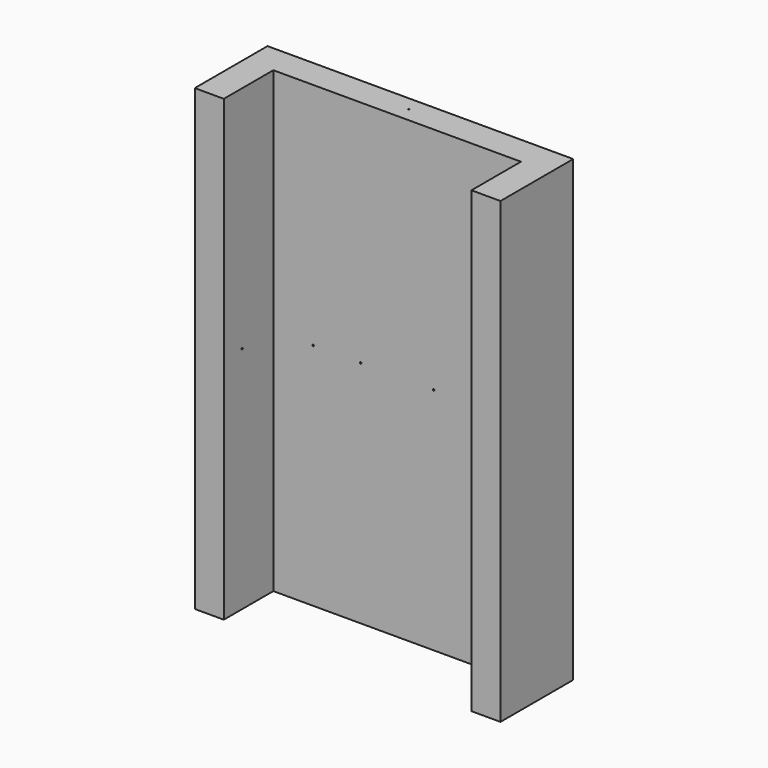
from build123d import *

# Parameters (mm, degrees)
F0_W      = 200
F0_H      = 300
F0_R      = 0.5
F1_DEPTH  = 19
F2_W      = 19
F2_H      = 300
F3_DEPTH  = 40.5
F4_R      = 0.5
F5_DEPTH  = 1
F6_R      = 0.5
F7_DEPTH  = 1
F8_R      = 0.5
F9_DEPTH  = 1
F10_R     = 0.5
F11_DEPTH = 1


with BuildPart() as f1:
    # F0 (on Front) → F1 (new body)
    with BuildSketch(Plane.XZ):
        with Locations((100, 150)):
            Rectangle(F0_W, F0_H)
        with Locations((45, 150)):
            Circle(F0_R, mode=Mode.SUBTRACT)
        with Locations((76.153976, 150)):
            Circle(F0_R, mode=Mode.SUBTRACT)
        with Locations((123.846024, 150)):
            Circle(F0_R, mode=Mode.SUBTRACT)
        with Locations((155, 150)):
            Circle(F0_R, mode=Mode.SUBTRACT)
    extrude(amount=F1_DEPTH)

    # F2 (on face) → F3 (join)
    with BuildSketch(Plane.XZ.offset(19)):
        with Locations((9.5, 150)):
            Rectangle(F2_W, F2_H)
        with Locations((190.5, 150)):
            Rectangle(F2_W, F2_H)
    extrude(amount=F3_DEPTH)

    # F4 (on face) → F5 (cut)
    with BuildSketch(Plane.YZ.offset(19)):
        with Locations((-44.5, 150)):
            Circle(F4_R)
    extrude(amount=-F5_DEPTH, mode=Mode.SUBTRACT)

    # F6 (on face) → F7 (cut)
    with BuildSketch(Plane(origin=(181, 0, 0), x_dir=(0, -1, 0), z_dir=(-1, 0, 0))):
        with Locations((44.5, 150)):
            Circle(F6_R)
    extrude(amount=-F7_DEPTH, mode=Mode.SUBTRACT)

    # F8 (on face) → F9 (cut)
    with BuildSketch(Plane(origin=(0, 0, 0), x_dir=(1, 0, 0), z_dir=(0, 0, -1))):
        with Locations((100, 9.5)):
            Circle(F8_R)
    extrude(amount=-F9_DEPTH, mode=Mode.SUBTRACT)

    # F10 (on face) → F11 (cut)
    with BuildSketch(Plane.XY.offset(300)):
        with Locations((100, -9.5)):
            Circle(F10_R)
    extrude(amount=-F11_DEPTH, mode=Mode.SUBTRACT)


solid = f1.part
